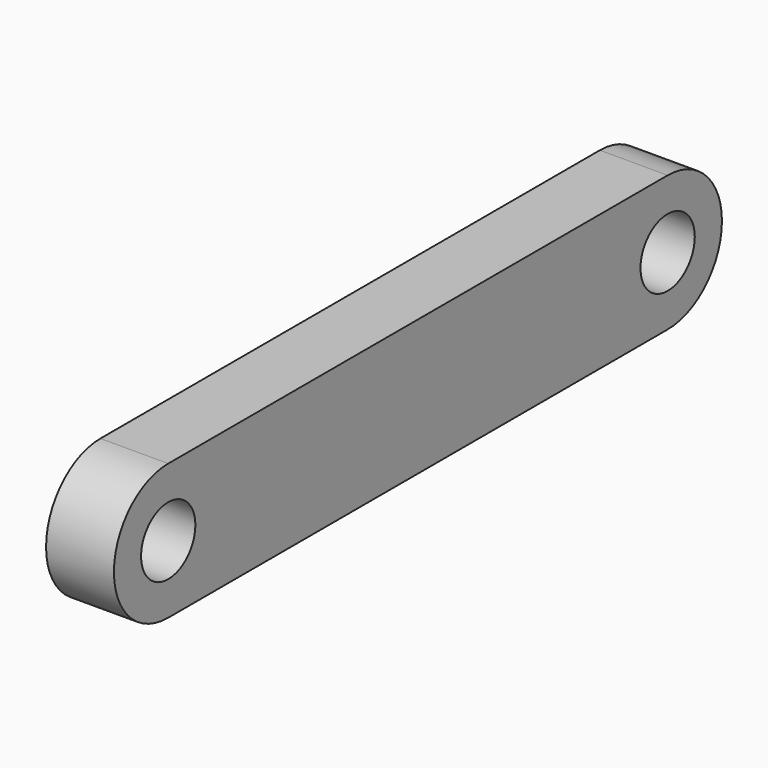
from build123d import *

# Parameters (mm, degrees)
F0_R     = 3.175
F1_DEPTH = 3.175


with BuildPart() as f1:
    # F0 (on Right) → F1 (new body, symmetric)
    with BuildSketch(Plane.YZ):
        with BuildLine():
            Line((58.42, 6.35), (0, 6.35))
            ThreePointArc((0, 6.35), (-6.35, 0), (0, -6.35))
            Line((0, -6.35), (58.42, -6.35))
            ThreePointArc((58.42, -6.35), (64.77, 0), (58.42, 6.35))
        make_face()
        Circle(F0_R, mode=Mode.SUBTRACT)
        with Locations((58.42, 0)):
            Circle(F0_R, mode=Mode.SUBTRACT)
    extrude(amount=F1_DEPTH, both=True)


solid = f1.part
